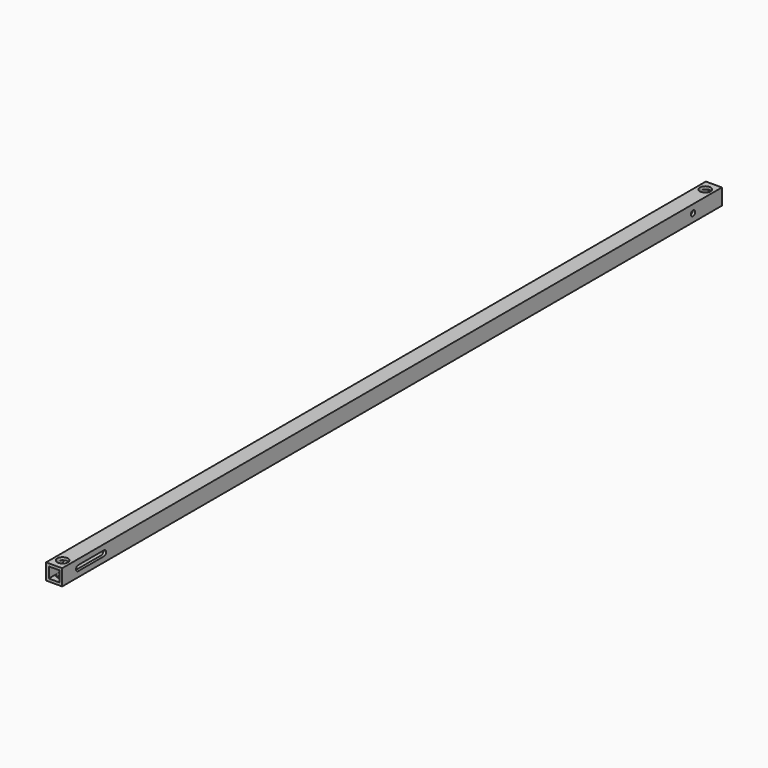
from build123d import *

# Parameters (mm, degrees)
F0_W     = 38.1
F0_H     = 38.1
F0_W_2   = 25.4
F0_H_2   = 25.4
F1_DEPTH = 977.9
F2_R     = 12.7
F3_DEPTH = 317.5
F4_R     = 6.35
F5_DEPTH = 76.2
F7_DEPTH = 50.8


with BuildPart() as f1:
    # F0 (on Front) → F1 (new body, symmetric)
    with BuildSketch(Plane.XZ):
        Rectangle(F0_W, F0_H)
        Rectangle(F0_W_2, F0_H_2, mode=Mode.SUBTRACT)
    extrude(amount=F1_DEPTH, both=True)

    # F2 (on Top) → F3 (cut, symmetric)
    with BuildSketch(Plane.XY):
        with Locations((0, -952.5)):
            Circle(F2_R)
        with Locations((0, 952.5)):
            Circle(F2_R)
    extrude(amount=F3_DEPTH, both=True, mode=Mode.SUBTRACT)

    # F4 (on face) → F5 (cut)
    with BuildSketch(Plane.YZ.offset(19.05)):
        with Locations((892.175, 0)):
            Circle(F4_R)
    extrude(amount=-F5_DEPTH, mode=Mode.SUBTRACT)

    # F6 (on face) → F7 (cut)
    with BuildSketch(Plane.YZ.offset(19.05)):
        with BuildLine():
            Line((-854.075, 6.35), (-930.275, 6.35))
            ThreePointArc((-930.275, 6.35), (-936.625, 0), (-930.275, -6.35))
            Line((-930.275, -6.35), (-854.075, -6.35))
            ThreePointArc((-854.075, -6.35), (-847.725, 0), (-854.075, 6.35))
        make_face()
    extrude(amount=-F7_DEPTH, mode=Mode.SUBTRACT)


solid = f1.part
